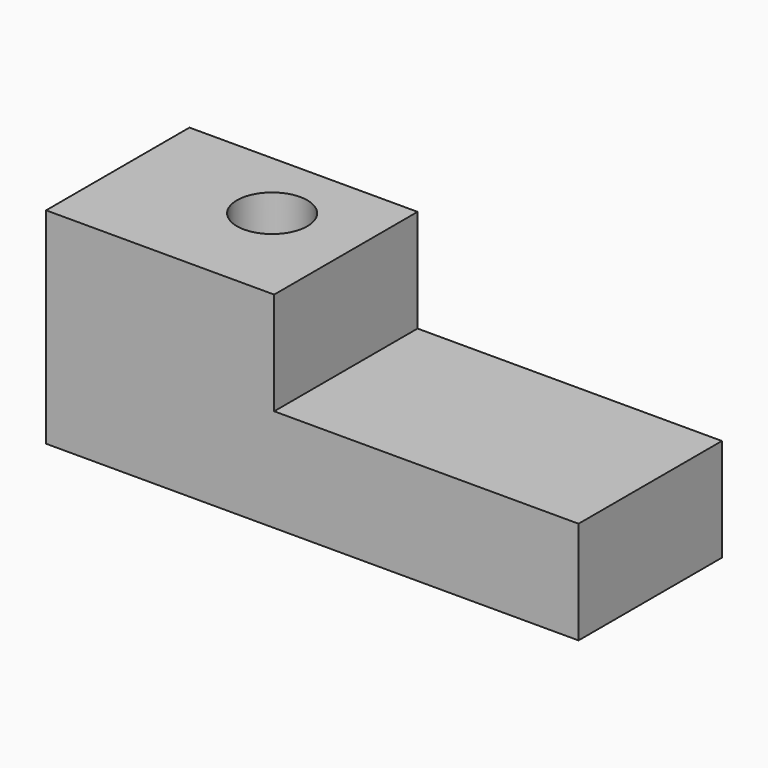
from build123d import *

# Parameters (mm, degrees)
F1_DEPTH = 35.56
F3_D     = 13.97


with BuildPart() as f1:
    # F0 (on Front) → F1 (new body)
    with BuildSketch(Plane.XZ):
        Polygon((-45.259599, 0), (0, 0), (60.392842, 0), (60.392842, 20.387838), (0, 20.387838), (0, 40.775675), (-45.259599, 40.775675), align=None)
    extrude(amount=F1_DEPTH)

    # F3 (through all)
    with Locations(Plane.XY.offset(40.775675)):
        with Locations((-17.293386, -14.445449)):
            Hole(F3_D / 2)


solid = f1.part
